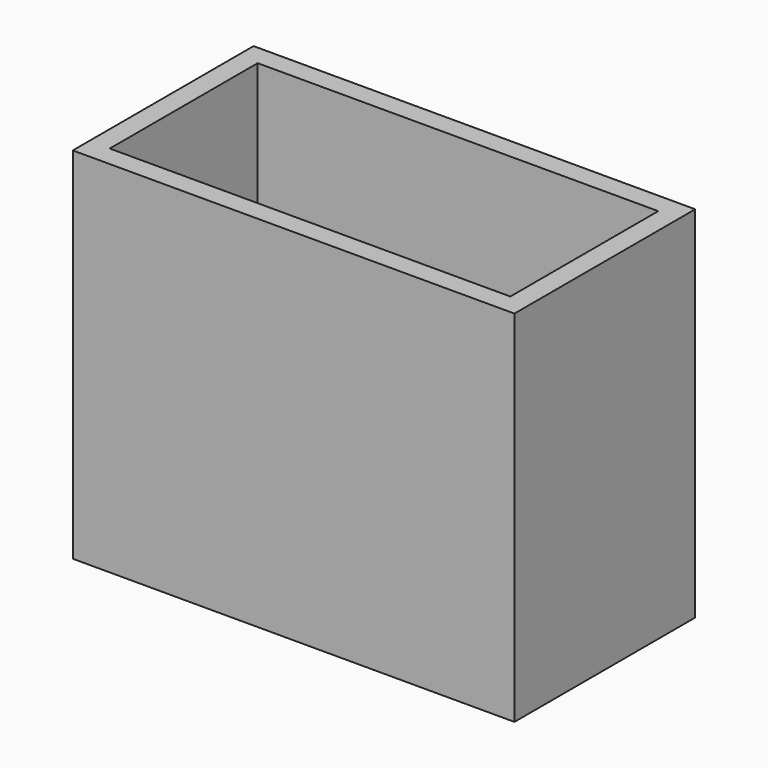
from build123d import *

# Parameters (mm, degrees)
F0_W     = 43
F0_H     = 22
F1_DEPTH = 35
F2_W     = 39
F2_H     = 18
F3_DEPTH = 33
F4_W     = 24.357798
F4_H     = 12.429554
F5_DEPTH = 25


with BuildPart() as f1:
    # F0 (on Top) → F1 (new body)
    with BuildSketch(Plane.XY):
        Rectangle(F0_W, F0_H)
    extrude(amount=F1_DEPTH)

    # F2 (on face) → F3 (cut)
    with BuildSketch(Plane.XY.offset(35)):
        Rectangle(F2_W, F2_H)
    extrude(amount=-F3_DEPTH, mode=Mode.SUBTRACT)

    # F4 (on Top) → F5 (cut)
    with BuildSketch(Plane.XY):
        with Locations((-4.539045, 0)):
            Rectangle(F4_W, F4_H)
    extrude(amount=F5_DEPTH, mode=Mode.SUBTRACT)


solid = f1.part
